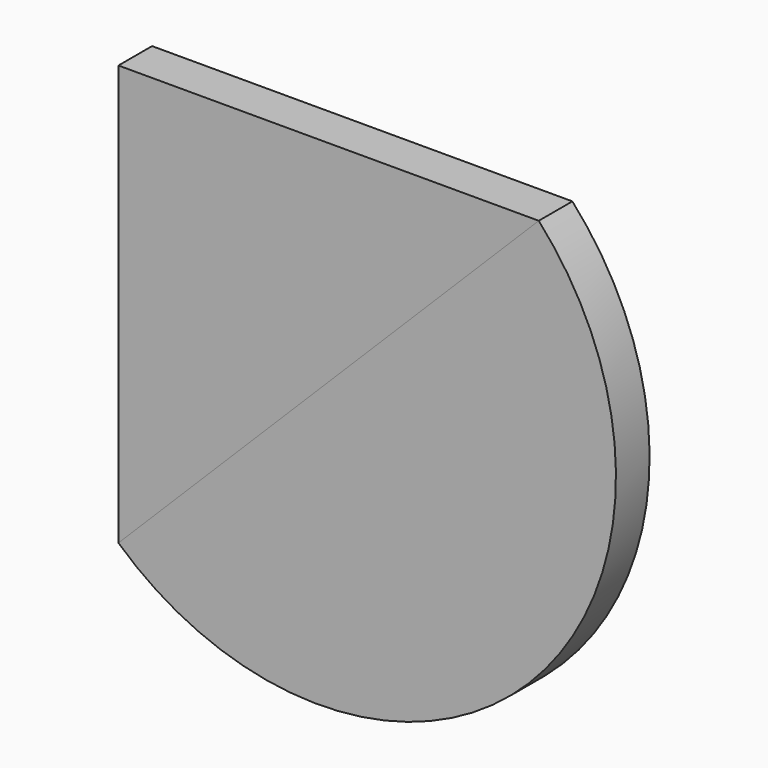
from build123d import *

# Parameters (mm, degrees)
F1_DEPTH = 25.4
F2_DEPTH = 25.4


with BuildPart() as f1:
    # F0 (on Front) → F1 (new body)
    with BuildSketch(Plane.XZ):
        Polygon((-127, -127), (127, 127), (-127, 127), align=None)
    extrude(amount=F1_DEPTH)


with BuildPart() as f2:
    # F0 (on Front) → F2 (new body)
    with BuildSketch(Plane.XZ):
        with BuildLine():
            ThreePointArc((-127, -127), (120.994344, -120.994344), (127, 127))
            Line((127, 127), (-127, -127))
        make_face()
    extrude(amount=F2_DEPTH)


solid = Compound([f1.part, f2.part])
